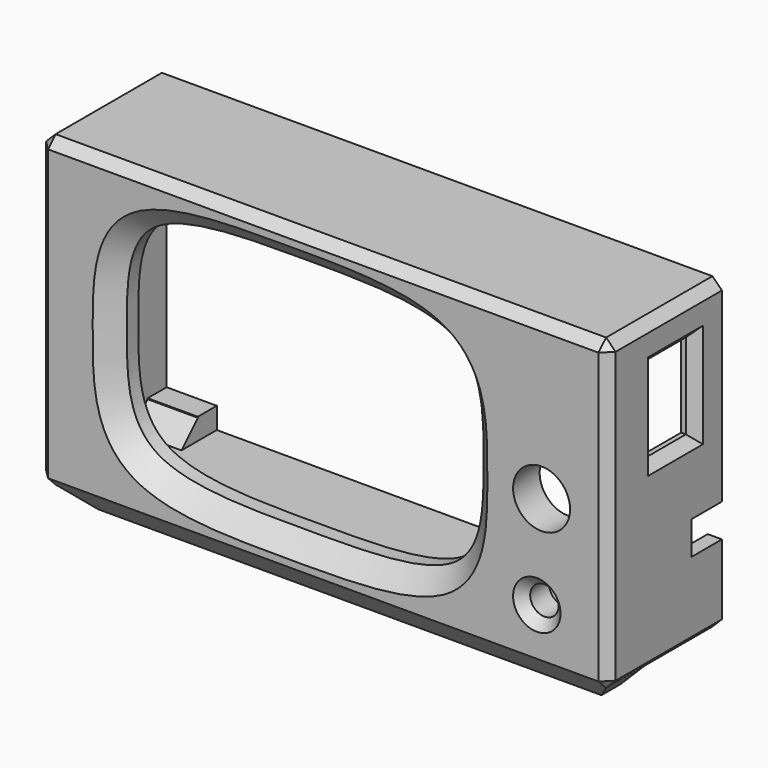
from build123d import *

# Parameters (mm, degrees)
SKETCH029_W             = 120
SKETCH029_H             = 65
PAD005_DEPTH            = 30
SKETCH028_R             = 3
POCKET016_DEPTH         = 30.001
SKETCH001_R             = 6
POCKET017_DEPTH         = 30.001
SKETCH030_W             = 114
SKETCH030_H             = 60
POCKET018_DEPTH         = 23
CHAMFER001_SIZE         = 4
SKETCH031_R             = 3.5
PAD006_DEPTH            = 4.5
SKETCH032_R             = 1.4
POCKET019_DEPTH         = 8
SKETCH033_W             = 18
SKETCH033_H             = 10.5
POCKET020_DEPTH         = 9
SKETCH034_W             = 28
SKETCH034_H             = 4
POCKET021_DEPTH         = 5
CHAMFER_SIZE            = 2
CHAMFER002_SIZE         = 2
CHAMFER003_SIZE         = 2
CHAMFER004_SIZE         = 2
SKETCH056_W             = 11.251533
SKETCH056_H             = 5.826853
SKETCH056_W_2           = 12.078758
SKETCH056_H_2           = 5.769963
PAD008_DEPTH            = 5
SKETCH058_R             = 1.4
POCKET038_DEPTH         = 4.8
SKETCH057_W             = 7
SKETCH057_H             = 9
POCKET039_DEPTH         = 5
PAD_DEPTH               = 104.43
PAD_DEPTH_BACK          = 11.55
CHAMFER010_SIZE         = 4.98
POCKET042_DEPTH         = 2
CHAMFER011_SIZE         = 4.3
BODY002_PLACEMENT_ANGLE = 90


with BuildPart() as part:
    # Sketch029 → Pad005 (new body)
    with BuildSketch(Plane.XY):
        with Locations((7, 0)):
            Rectangle(SKETCH029_W, SKETCH029_H)
        with BuildLine():
            add(Edge.make_bspline(
                [(0, 25.038668), (-12.580271, 25.038668), (-37.740814, 25.116003), (-37.5, 0), (-37.740814, -25.116003), (0, -25), (37.740814, -25.116003), (37.5, 0), (37.740814, 25.116003), (12.580271, 25.038668), (0, 25.038668)],
                knots=[0, 0, 0, 0, 0.125, 0.25, 0.375, 0.5, 0.625, 0.75, 0.875, 1, 1, 1, 1], degree=3))
        make_face(mode=Mode.SUBTRACT)
    extrude(amount=PAD005_DEPTH)

    # Sketch028 → Pocket016 (cut, through all)
    with BuildSketch(Plane(origin=(0, 0, 0), x_dir=(1, 0, 0), z_dir=(0, 0, -1))):
        with Locations((52, 20.5)):
            Circle(SKETCH028_R)
    extrude(amount=-POCKET016_DEPTH, mode=Mode.SUBTRACT)

    # Sketch001 (on Face5 of Pocket016) → Pocket017 (cut, through all)
    with BuildSketch(Plane.XY.offset(30)):
        with Locations((53, -0.5)):
            Circle(SKETCH001_R)
    extrude(amount=-POCKET017_DEPTH, mode=Mode.SUBTRACT)

    # Sketch030 (on Face4 of Pocket017) → Pocket018 (cut)
    with BuildSketch(Plane(origin=(0, 0, 0), x_dir=(1, 0, 0), z_dir=(0, 0, -1))):
        with Locations((7, 0)):
            Rectangle(SKETCH030_W, SKETCH030_H)
    extrude(amount=-POCKET018_DEPTH, mode=Mode.SUBTRACT)

    # Chamfer001
    chamfer001_edges = [part.edges().sort_by_distance(p)[0] for p in [
        (0, -25.038668, 30),
    ]]
    chamfer(chamfer001_edges, length=CHAMFER001_SIZE)

    # Sketch031 (on Face11 of Chamfer001) → Pad006 (join)
    with BuildSketch(Plane(origin=(0, 0, 23), x_dir=(1, 0, 0), z_dir=(0, 0, -1))):
        with Locations((-45.5, 25)):
            Circle(SKETCH031_R)
        with Locations((-45.5, -25)):
            Circle(SKETCH031_R)
        with Locations((58.5, -25)):
            Circle(SKETCH031_R)
        with Locations((58.5, 25)):
            Circle(SKETCH031_R)
    extrude(amount=PAD006_DEPTH)

    # Sketch032 (on Face22 of Pad006) → Pocket019 (cut)
    with BuildSketch(Plane(origin=(0, 0, 18.5), x_dir=(1, 0, 0), z_dir=(0, 0, -1))):
        with Locations((-45.5, 25)):
            Circle(SKETCH032_R)
        with Locations((58.5, 25)):
            Circle(SKETCH032_R)
        with Locations((58.5, -25)):
            Circle(SKETCH032_R)
        with Locations((-45.5, -25)):
            Circle(SKETCH032_R)
    extrude(amount=-POCKET019_DEPTH, mode=Mode.SUBTRACT)

    # Sketch033 (on Face5 of Pocket019) → Pocket020 (cut)
    with BuildSketch(Plane.YZ.offset(67)):
        with Locations((15, 12.25)):
            Rectangle(SKETCH033_W, SKETCH033_H)
    extrude(amount=-POCKET020_DEPTH, mode=Mode.SUBTRACT)

    # Sketch034 (on Face4 of Pocket020) → Pocket021 (cut)
    with BuildSketch(Plane(origin=(-53, 0, 0), x_dir=(0, -1, 0), z_dir=(-1, 0, 0))):
        with Locations((0, 15.5)):
            Rectangle(SKETCH034_W, SKETCH034_H)
    extrude(amount=-POCKET021_DEPTH, mode=Mode.SUBTRACT)

    # Chamfer
    chamfer_edges = [part.edges().sort_by_distance(p)[0] for p in [
        (-53, -32.5, 15),
        (-53, 0, 30),
        (7, -32.5, 30),
        (-53, 32.5, 15),
        (7, 32.5, 30),
        (67, 32.5, 15),
        (67, 0, 30),
        (67, -32.5, 15),
    ]]
    chamfer(chamfer_edges, length=CHAMFER_SIZE)

    # Chamfer002
    chamfer002_edges = [part.edges().sort_by_distance(p)[0] for p in [
        (49, -20.5, 30),
    ]]
    chamfer(chamfer002_edges, length=CHAMFER002_SIZE)

    # Chamfer003
    chamfer003_edges = [part.edges().sort_by_distance(p)[0] for p in [
        (67, 24, 12.25),
        (67, 15, 17.5),
        (67, 6, 12.25),
        (67, 15, 7),
    ]]
    chamfer(chamfer003_edges, length=CHAMFER003_SIZE)

    # Chamfer004
    chamfer004_edges = [part.edges().sort_by_distance(p)[0] for p in [
        (-53, 0, 17.5),
        (-53, 0, 13.5),
        (-53, 14, 15.5),
        (-53, -14, 15.5),
    ]]
    chamfer(chamfer004_edges, length=CHAMFER004_SIZE)

    # Sketch056 (on Face6 of Chamfer004) → Pad008 (join)
    with BuildSketch(Plane(origin=(0, 0, 0), x_dir=(1, 0, 0), z_dir=(0, 0, -1))):
        with Locations((-45.057144, 28.413426)):
            Rectangle(SKETCH056_W, SKETCH056_H)
        with Locations((58.963699, 28.384981)):
            Rectangle(SKETCH056_W_2, SKETCH056_H_2)
    pad008 = extrude(amount=-PAD008_DEPTH)

    # Mirrored: Pad008 across Sketch056 H_Axis
    add(pad008.mirror(Plane(origin=(0, 0, 0), x_dir=(0, 0, -1), z_dir=(0, -1, 0))))

    # Sketch058 → Pocket038 (cut)
    with BuildSketch(Plane(origin=(0, 0, 0), x_dir=(1, 0, 0), z_dir=(0, 0, -1))):
        with Locations((-43, 28.5)):
            Circle(SKETCH058_R)
        with Locations((-43, -28.503868)):
            Circle(SKETCH058_R)
        with Locations((57, -28.5)):
            Circle(SKETCH058_R)
        with Locations((57, 28.5)):
            Circle(SKETCH058_R)
    extrude(amount=-POCKET038_DEPTH, mode=Mode.SUBTRACT)

    # Sketch057 (on Face16 of Pocket038) → Pocket039 (cut)
    with BuildSketch(Plane.YZ.offset(67)):
        with Locations((-12.169927, 3.5)):
            Rectangle(SKETCH057_W, SKETCH057_H)
    extrude(amount=-POCKET039_DEPTH, mode=Mode.SUBTRACT)

    # Sketch065 (on Face51 of Pocket039) → Pad (join, two sides)
    with BuildSketch(Plane.YZ.offset(-39.431378)) as pad_sk:
        Polygon((-32.5, 28), (-37.5, 23), (-37.5, 18), (-32.5, 18), align=None)
    extrude(amount=PAD_DEPTH)
    extrude(pad_sk.sketch, amount=-PAD_DEPTH_BACK)

    # Chamfer010
    chamfer010_edges = [part.edges().sort_by_distance(p)[0] for p in [
        (-50.981378, -37.5, 20.5),
        (64.998622, -37.5, 20.5),
    ]]
    chamfer(chamfer010_edges, length=CHAMFER010_SIZE)

    # Sketch064 (on Face4 of Chamfer010) → Pocket042 (cut)
    with BuildSketch(Plane.XZ.offset(32.5)):
        Polygon((-21.333826, 3), (-17.667652, 9.35), (-21.333826, 15.7), (-28.666174, 15.7), (-32.332348, 9.35), (-28.666174, 3), align=None)
    pocket042 = extrude(amount=-POCKET042_DEPTH, mode=Mode.SUBTRACT)

    # Mirrored001: Pocket042 across Sketch064 V_Axis
    add(pocket042.mirror(Plane(origin=(0, -32.5, 0), x_dir=(0, -1, 0), z_dir=(1, 0, 0))), mode=Mode.SUBTRACT)

    # Chamfer011
    chamfer011_edges = [part.edges().sort_by_distance(p)[0] for p in [
        (-44.715689, -30, 5),
        (58.46216, -30, 5),
        (58.46216, 30, 5),
        (-44.715689, 30, 5),
    ]]
    chamfer(chamfer011_edges, length=CHAMFER011_SIZE)


with BuildPart() as part_1:
    # Body002 placement: moved
    add(part.part.moved(Location((-7, 0.022108, -0.015842))).rotate(Axis((-7, 0.022108, -0.015842), (1, 0, 0)), BODY002_PLACEMENT_ANGLE))


solid = part_1.part
